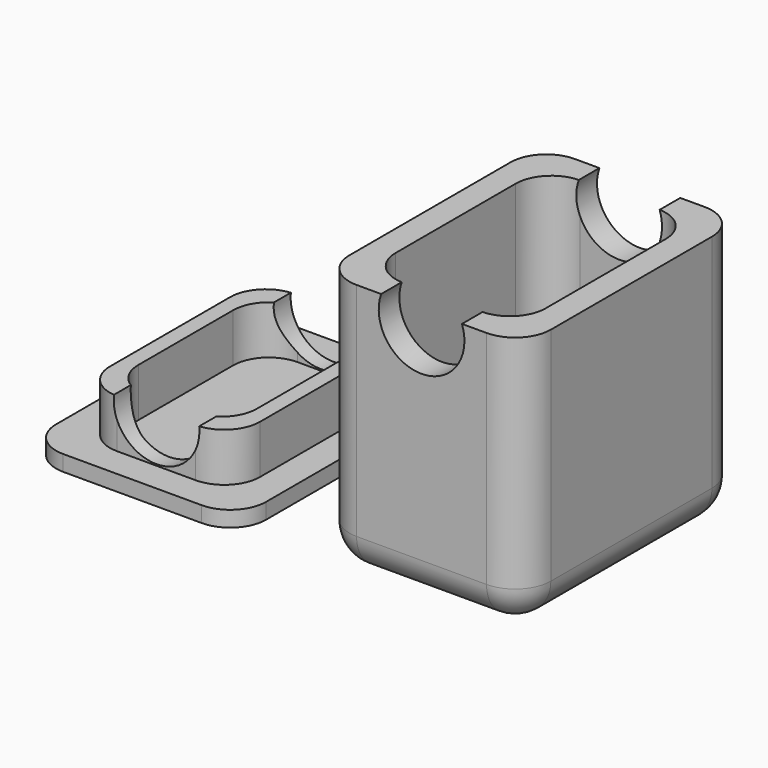
from build123d import *

# Parameters (mm, degrees)
F0_W     = 10.5
F0_H     = 15.5
F0_R     = 3
F1_DEPTH = 1.5
F0_W_2   = 14.1
F0_H_2   = 19.1
F2_DEPTH = 18
F0_W_3   = 14.7
F0_H_3   = 19.7
F0_W_4   = 8.3
F0_H_4   = 13.3
F3_DEPTH = 1.1
F4_DEPTH = 4.5
F5_R     = 2.5
F5_2_R   = 2.5
F6_R     = 3
F7_DEPTH = 12.5


with BuildPart() as f1:
    # F0 (on Top) → F1 (new body)
    with BuildSketch(Plane.XY):
        Rectangle(F0_W, F0_H)
        Circle(F0_R, mode=Mode.SUBTRACT)
    extrude(amount=F1_DEPTH)

    # F0 (on Top) → F2 (join)
    with BuildSketch(Plane.XY):
        Rectangle(F0_W_2, F0_H_2)
        Rectangle(F0_W, F0_H, mode=Mode.SUBTRACT)
    extrude(amount=F2_DEPTH)

    # F5
    f5_edges = [f1.edges().sort_by_distance(p)[0] for p in [
        (7.05, 0, 0),
        (7.05, 9.55, 9),
        (0, 9.55, 0),
        (-7.05, 0, 0),
        (7.05, -9.55, 9),
        (-7.05, -9.55, 9),
        (0, -9.55, 0),
        (-7.05, 9.55, 9),
        (-5.25, 7.75, 9.75),
        (5.25, 7.75, 9.75),
        (5.25, -7.75, 9.75),
        (-5.25, -7.75, 9.75),
    ]]
    fillet(f5_edges, radius=F5_R)


with BuildPart() as f3:
    # F0 (on Top) → F3 (new body)
    with BuildSketch(Plane.XY):
        with Locations((-20, 0)):
            Rectangle(F0_W_3, F0_H_3)
        with Locations((-20, 0)):
            Rectangle(F0_W, F0_H, mode=Mode.SUBTRACT)
        with Locations((-20, 0)):
            Rectangle(F0_W_4, F0_H_4)
    extrude(amount=F3_DEPTH)

    # F0 (on Top) → F4 (join)
    with BuildSketch(Plane.XY):
        with Locations((-20, 0)):
            Rectangle(F0_W, F0_H)
        with Locations((-20, 0)):
            Rectangle(F0_W_4, F0_H_4, mode=Mode.SUBTRACT)
    extrude(amount=F4_DEPTH)

    # F5#2
    f5_2_edges = [f3.edges().sort_by_distance(p)[0] for p in [
        (-12.65, -9.85, 0.55),
        (-27.35, -9.85, 0.55),
        (-14.75, -7.75, 2.8),
        (-15.85, -6.65, 2.8),
        (-15.85, 6.65, 2.8),
        (-24.15, 6.65, 2.8),
        (-12.65, 9.85, 0.55),
        (-14.75, 7.75, 2.8),
        (-24.15, -6.65, 2.8),
        (-25.25, 7.75, 2.8),
        (-27.35, 9.85, 0.55),
        (-25.25, -7.75, 2.8),
    ]]
    fillet(f5_2_edges, radius=F5_2_R)


with BuildPart() as f7_tool:
    # F6 (on Front) → F7 (new body, symmetric)
    with BuildSketch(Plane.XZ):
        with Locations((0, 17)):
            Circle(F6_R)
        with Locations((-20, 4.2)):
            Circle(F6_R)
    extrude(amount=F7_DEPTH, both=True)


with BuildPart() as f1_1:
    add(f1.part)

    # F7: cut by f7_tool
    add(f7_tool.part, mode=Mode.SUBTRACT)


with BuildPart() as f3_1:
    add(f3.part)

    # F7: cut by f7_tool
    add(f7_tool.part, mode=Mode.SUBTRACT)


solid = Compound([f1_1.part, f3_1.part])
